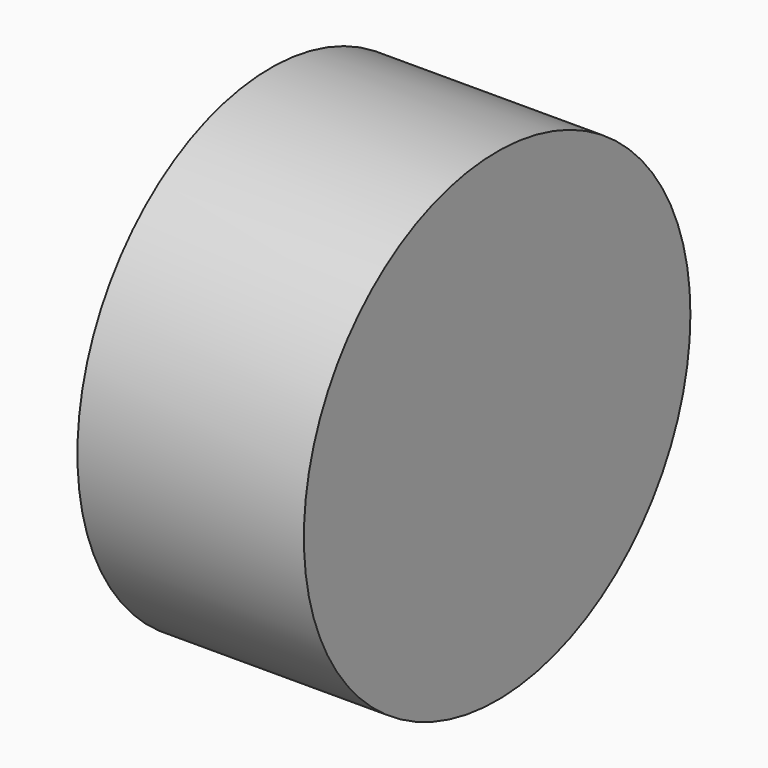
from build123d import *

# Parameters (mm, degrees)
SKETCH_W = 3
SKETCH_H = 3.2


with BuildPart() as part:
    # Sketch → Revolution (revolve)
    with BuildSketch(Plane.XY):
        with Locations((1.5, 1.6)):
            Rectangle(SKETCH_W, SKETCH_H)
    revolve(axis=Axis((0, 0, 0), (1, 0, 0)))


solid = part.part
